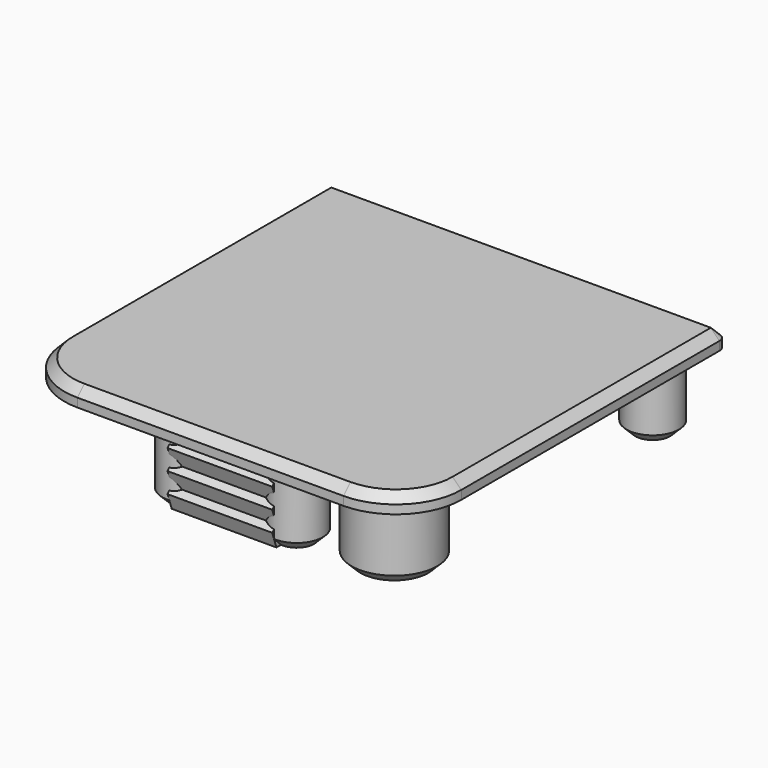
from build123d import *

# Parameters (mm, degrees)
PAD001_DEPTH    = 2
SKETCH002_R     = 3
SKETCH002_R_2   = 4.9
PAD002_DEPTH    = 8
CHAMFER_SIZE    = 1
CHAMFER001_SIZE = 1
PAD003_DEPTH    = 9
PAD004_DEPTH    = 6
PAD005_DEPTH    = 8.5
PAD006_DEPTH    = 0.4


with BuildPart() as part:
    # Sketch001 → Pad001 (new body)
    with BuildSketch(Plane.XY):
        with BuildLine():
            Line((-21.73, 22.75), (21.73, 22.75))
            ThreePointArc((22.75, 21.73), (22.451249, 22.451249), (21.73, 22.75))
            Line((22.75, 21.73), (22.75, -15.25))
            ThreePointArc((15.25, -22.75), (20.553301, -20.553301), (22.75, -15.25))
            Line((15.25, -22.75), (-15.25, -22.75))
            ThreePointArc((-22.75, -15.25), (-20.553301, -20.553301), (-15.25, -22.75))
            Line((-22.75, -15.25), (-22.75, 21.73))
            ThreePointArc((-21.73, 22.75), (-22.451249, 22.451249), (-22.75, 21.73))
        make_face()
    extrude(amount=PAD001_DEPTH)

    # Sketch002 → Pad002 (join)
    with BuildSketch(Plane.XY):
        with Locations((-18.05, 18.05)):
            Circle(SKETCH002_R)
        with Locations((18.05, 18.05)):
            Circle(SKETCH002_R)
        with Locations((6.2, -18.15)):
            Circle(SKETCH002_R)
        with Locations((-6.2, -18.15)):
            Circle(SKETCH002_R)
        with Locations((15.8, -16.15)):
            Circle(SKETCH002_R_2)
    extrude(amount=-PAD002_DEPTH)

    # Chamfer
    chamfer_edges = [part.edges().sort_by_distance(p)[0] for p in [
        (15.05, 18.05, -8),
        (-21.05, 18.05, -8),
        (-9.2, -18.15, -8),
        (3.2, -18.15, -8),
        (10.9, -16.15, -8),
    ]]
    chamfer(chamfer_edges, length=CHAMFER_SIZE)

    # Chamfer001
    chamfer001_edges = [part.edges().sort_by_distance(p)[0] for p in [
        (0, -22.75, 2),
    ]]
    chamfer(chamfer001_edges, length=CHAMFER001_SIZE)

    # Sketch003 → Pad003 (join, symmetric)
    with BuildSketch(Plane.XZ.offset(-3)):
        with BuildLine():
            ThreePointArc((-20.8, -0.965685), (-20.677375, -0.349207), (-21.2, 0))
            Line((-21.2, 0), (-15.2, 0))
            ThreePointArc((-15.2, 0), (-16.381381, -0.386204), (-17.106508, -1.395661))
            Line((-19.2, -8), (-17.106508, -1.395661))
            Line((-20.8, -8), (-19.2, -8))
            Line((-21.4, -6.255228), (-20.8, -8))
            Line((-20.8, -5.655228), (-21.4, -6.255228))
            Line((-21.4, -3.910457), (-20.8, -5.655228))
            Line((-20.8, -3.310457), (-21.4, -3.910457))
            Line((-21.4, -1.565685), (-20.8, -3.310457))
            Line((-20.8, -0.965685), (-21.4, -1.565685))
        make_face()
        with BuildLine():
            Line((3, 0), (9, 0))
            ThreePointArc((9, 0), (8.477375, -0.349207), (8.6, -0.965685))
            Line((8.6, -0.965685), (9.2, -1.565685))
            Line((9.2, -1.565685), (8.6, -3.310457))
            Line((8.6, -3.310457), (9.2, -3.910457))
            Line((9.2, -3.910457), (8.6, -5.655228))
            Line((8.6, -5.655228), (9.2, -6.255228))
            Line((9.2, -6.255228), (8.6, -8))
            Line((8.6, -8), (7, -8))
            Line((7, -8), (4.906508, -1.395661))
            ThreePointArc((4.906508, -1.395661), (4.181381, -0.386204), (3, 0))
        make_face()
    extrude(amount=PAD003_DEPTH, both=True)

    # Sketch004 → Pad004 (join, symmetric)
    with BuildSketch(Plane.YZ):
        with BuildLine():
            ThreePointArc((-20.8, -1.023773), (-20.665406, -0.381157), (-21.2, 0))
            Line((-21.2, 0), (-15.2, 0))
            ThreePointArc((-15.2, 0), (-16.381381, -0.386204), (-17.106508, -1.395661))
            Line((-19.2, -8), (-17.106508, -1.395661))
            Line((-20.8, -8), (-19.2, -8))
            Line((-21.4, -6.274591), (-20.8, -8))
            Line((-20.8, -5.674591), (-21.4, -6.274591))
            Line((-21.4, -3.949182), (-20.8, -5.674591))
            Line((-20.8, -3.349182), (-21.4, -3.949182))
            Line((-21.4, -1.623773), (-20.8, -3.349182))
            Line((-20.8, -1.023773), (-21.4, -1.623773))
        make_face()
    extrude(amount=PAD004_DEPTH, both=True)

    # Sketch005 → Pad005 (join, symmetric)
    with BuildSketch(Plane.YZ.offset(-5)):
        with BuildLine():
            Line((15.2, 0), (21.2, 0))
            ThreePointArc((21.2, 0), (20.665406, -0.381157), (20.8, -1.023773))
            Line((20.8, -1.023773), (21.4, -1.623773))
            Line((21.4, -1.623773), (20.8, -3.349182))
            Line((20.8, -3.349182), (21.4, -3.949182))
            Line((21.4, -3.949182), (20.8, -5.674591))
            Line((20.8, -5.674591), (21.4, -6.274591))
            Line((21.4, -6.274591), (20.8, -8))
            Line((20.8, -8), (19.2, -8))
            Line((19.2, -8), (17.106508, -1.395661))
            ThreePointArc((17.106508, -1.395661), (16.381381, -0.386204), (15.2, 0))
        make_face()
    extrude(amount=PAD005_DEPTH, both=True)

    # Sketch006 → Pad006 (new body)
    with BuildSketch(Plane(origin=(0, 0, 0), x_dir=(-1, 0, 0), z_dir=(0, 0, 1))):
        Polygon((8.162951, -4.789), (8.162951, 4.722677), (6.260616, 4.722677), (6.260616, -3.158427), (1.640658, -3.158427), (1.640658, -4.789), align=None)
    extrude(amount=-PAD006_DEPTH)


solid = part.part
